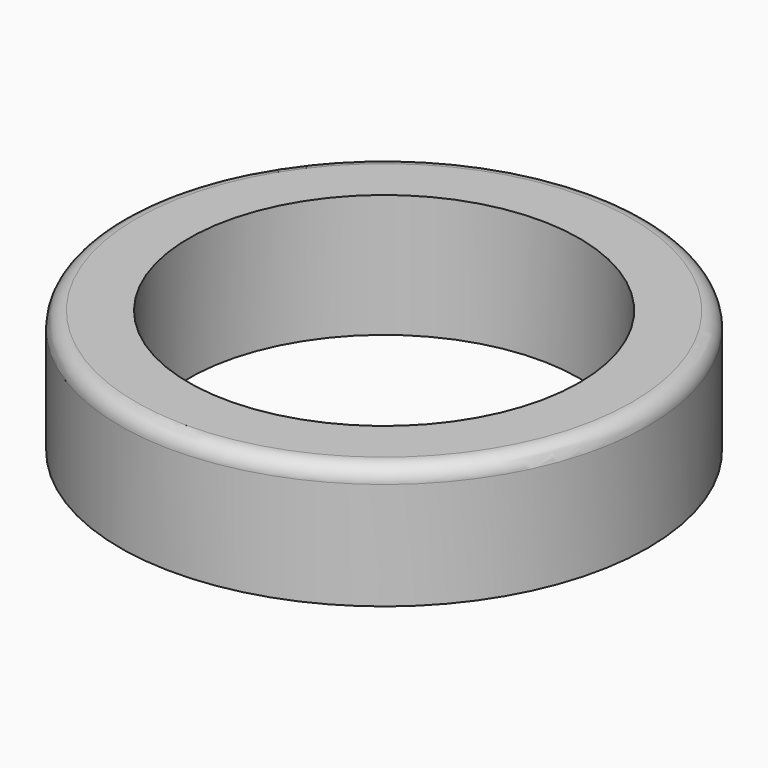
from build123d import *

# Parameters (mm, degrees)
F0_R     = 15
F0_R_2   = 11.1
F1_DEPTH = 7
F2_R     = 0.9


with BuildPart() as f1:
    # F0 (on Top) → F1 (new body)
    with BuildSketch(Plane.XY):
        with Locations((-8.178392, 3.297739)):
            Circle(F0_R)
        with Locations((-8.178392, 3.297739)):
            Circle(F0_R_2, mode=Mode.SUBTRACT)
    extrude(amount=F1_DEPTH)

    # F2
    f2_edges = [f1.edges().sort_by_distance(p)[0] for p in [
        (-23.178392, 3.297739, 7),
    ]]
    fillet(f2_edges, radius=F2_R)


solid = f1.part
